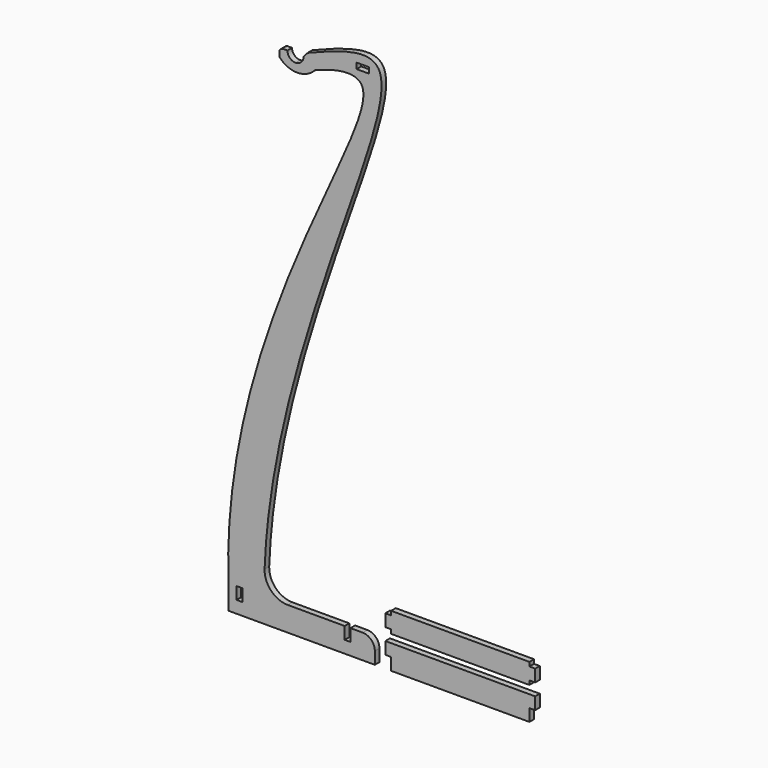
from build123d import *

# Parameters (mm, degrees)
F0_W     = 18.034
F0_H     = 38.1
F1_DEPTH = 18.034
F0_W_2   = 38.1
F0_H_2   = 18.034


with BuildPart() as f1:
    # F0 (on Front) → F1 (new body)
    with BuildSketch(Plane.XZ):
        Polygon((730.25, 0), (298.45, 0), (298.45, -38.1), (298.45, -76.2), (730.25, -76.2), (730.25, -38.1), align=None)
        with Locations((289.433, -19.05)):
            Rectangle(F0_W, F0_H)
        with Locations((739.267, -19.05)):
            Rectangle(F0_W, F0_H)
    extrude(amount=F1_DEPTH)


with BuildPart() as f1b:
    # F0 (on Front) → F1, piece 2 (new body)
    with BuildSketch(Plane.XZ):
        with BuildLine():
            Line((-184.15, 0), (-209.55, 0))
            Line((-209.55, 0), (-209.55, -76.2))
            Line((-209.55, -76.2), (247.65, -76.2))
            Line((247.65, -76.2), (247.65, -38.1))
            ThreePointArc((247.65, -38.1), (236.4907683632, -11.1592316368), (209.55, 0))
            Line((209.55, 0), (171.45, 0))
            Line((171.45, 0), (171.45, -38.1))
            Line((171.45, -38.1), (153.416, -38.1))
            Line((153.416, -38.1), (153.416, 0))
            Line((153.416, 0), (-24.2630077299, 0))
            Line((-24.2630077299, 0), (-166.116, 0))
            Line((-166.116, 0), (-166.116, -38.1))
            Line((-166.116, -38.1), (-184.15, -38.1))
            Line((-184.15, -38.1), (-184.15, 0))
        make_face()
        with BuildLine():
            add(Edge.make_bspline(
                [(61.2882599734, 1498.6), (123.2096838063, 1522.726835876), (413.710255519, 1585.8003394725), (-234.8449324839, 729.4511206789), (-209.55, 0)],
                knots=[0, 0, 0, 0, 0.2346991242, 1, 1, 1, 1], degree=3))
            Line((-209.55, 0), (-184.15, 0))
            Line((-184.15, 0), (-166.116, 0))
            Line((-166.116, 0), (-24.2630077299, 0))
            ThreePointArc((-24.2630077299, 0), (-76.4240599539, 22.1778011054), (-96.6416075826, 75.1294866204))
            add(Edge.make_bspline(
                [(38.1, 1538.1990316571), (132.1271545862, 1575.9034953538), (489.2555231672, 1713.1156448449), (-72.4121528108, 724.5196297428), (-96.6416075826, 75.1294866204)],
                knots=[0, 0, 0, 0, 0.2760813128, 1, 1, 1, 1], degree=3))
            Line((38.1, 1538.1990316571), (25.4, 1524))
            ThreePointArc((25.4, 1524), (17.9605122421, 1506.0394877579), (0, 1498.6))
            Line((0, 1498.6), (0, 1473.2))
            ThreePointArc((0, 1473.2), (33.6421933009, 1478.6659022118), (61.2882599734, 1498.6))
        make_face()
        with Locations((209.8233869791, 1552.0993377762)):
            Rectangle(F0_W_2, F0_H_2, mode=Mode.SUBTRACT)
        with BuildLine():
            ThreePointArc((-50.8, 1498.6), (-27.9274346831, 1480.8451306338), (0, 1473.2))
            Line((0, 1473.2), (0, 1498.6))
            ThreePointArc((0, 1498.6), (-17.9605122421, 1506.0394877579), (-25.4, 1524))
            Line((-25.4, 1524), (-38.1, 1524))
            ThreePointArc((-38.1, 1524), (-47.0802561211, 1520.2802561211), (-50.8, 1511.3))
            Line((-50.8, 1511.3), (-50.8, 1498.6))
        make_face()
    extrude(amount=F1_DEPTH)


with BuildPart() as f1c:
    # F0 (on Front) → F1, piece 3 (new body)
    with BuildSketch(Plane.XZ):
        with Locations((289.433, 57.15)):
            Rectangle(F0_W, F0_H)
        Polygon((298.45, 38.1), (298.45, 25.4), (730.25, 25.4), (730.25, 38.1), (730.25, 76.2), (730.25, 88.9), (298.45, 88.9), (298.45, 76.2), align=None)
        with Locations((739.267, 57.15)):
            Rectangle(F0_W, F0_H)
    extrude(amount=F1_DEPTH)


solid = Compound([f1.part, f1b.part, f1c.part])
